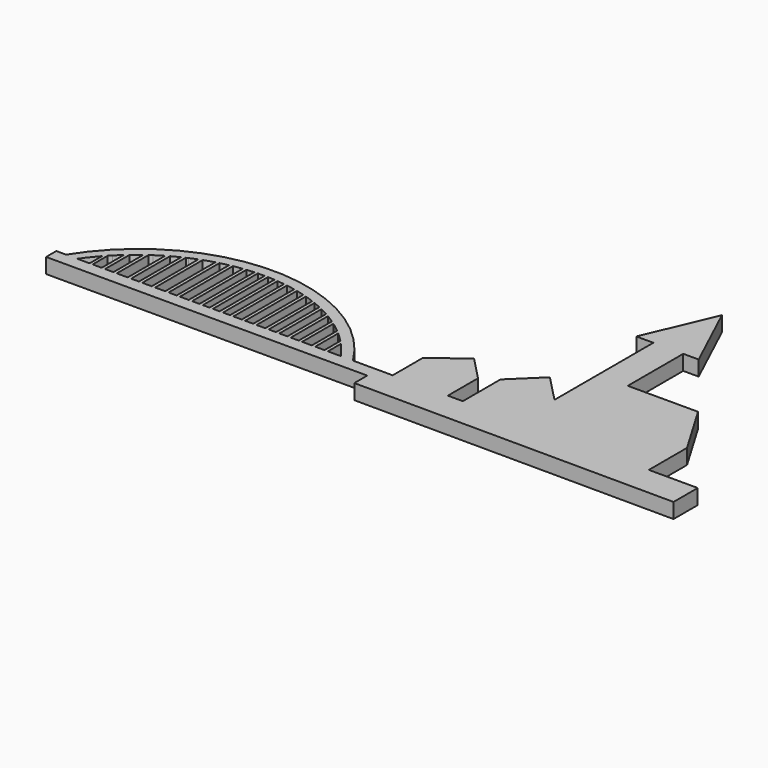
from build123d import *

# Parameters (mm, degrees)
F2_DEPTH = 2
F3_W     = 0.40073
F3_H     = 3.094508
F3_W_2   = 0.445254
F3_H_2   = 4.318954
F3_H_3   = 5.565662
F3_H_4   = 6.723319
F3_W_3   = 0.445252
F3_H_5   = 7.725138
F3_H_6   = 8.370755
F3_H_7   = 8.83827
F3_H_8   = 9.105423
F3_W_4   = 0.445253
F3_H_9   = 9.506151
F3_H_10  = 9.439363
F3_H_11  = 9.083159
F3_H_12  = 8.459806
F3_W_5   = 0.448172
F3_H_13  = 8.174662
F3_H_14  = 6.776365
F3_H_15  = 5.736604
F3_H_16  = 4.678918
F3_W_6   = 0.451199
F3_H_17  = 3.560012
F4_DEPTH = 2


with BuildPart() as f2:
    # F1 (on face) → F2 (new body)
    with BuildSketch(Plane.XY):
        Polygon((-42.565533, -25.966065), (-42.565533, -27.660457), (0, -27.660457), (0, -25.966065), (-3.254796, -25.966065), (-4.865278, -25.966065), (-6.80548, -25.966065), (-7.284604, -25.966065), (-8.611036, -25.966065), (-9.190797, -25.966065), (-10.747001, -25.966065), (-11.576914, -25.966065), (-13.527635, -25.966065), (-14.543153, -25.966065), (-16.00546, -25.966065), (-17.032834, -25.966065), (-18.660922, -25.966065), (-19.680227, -25.966065), (-21.282767, -25.966065), (-22.327718, -25.966065), (-24.128009, -25.966065), (-24.945042, -25.966065), (-26.6696, -25.966065), (-27.674529, -25.966065), (-29.783733, -25.966065), (-30.905583, -25.966065), (-33.341274, -25.966065), (-34.150291, -25.966065), (-36.62416, -25.966065), (-37.416613, -25.966065), (-39.790157, -25.966065), (-41.272748, -25.966065), align=None)
        Polygon((0, -25.966065), (0, -27.660457), (0, -29.807076), (42.442255, -29.978171), (42.442255, -25.966065), (37.837461, -25.966065), (35.959285, -25.966065), (35.959285, -19.634349), (31.794641, -12.611612), (22.485428, -12.611612), (22.485428, -3.422375), (24.526922, -3.422375), (20.198954, 5.84349), (16.263861, -3.422375), (18.525192, -3.422375), (18.525192, -19.802407), (14.995469, -16.15097), (11.306624, -19.716855), (11.306624, -25.966065), (9.322134, -25.966065), (9.322134, -20.964459), (6.251046, -17.787471), (2.015062, -20.964459), (2.015062, -25.966065), align=None)
        with BuildLine():
            ThreePointArc((-3.254796, -25.966065), (-22.263772, -15.386694), (-41.272748, -25.966065))
            Line((-41.272748, -25.966065), (-39.790157, -25.966065))
            ThreePointArc((-39.790157, -25.966065), (-38.665481, -24.491199), (-37.416613, -23.119903))
            ThreePointArc((-37.416613, -23.119903), (-37.025265, -22.73615), (-36.62416, -22.362606))
            ThreePointArc((-36.62416, -22.362606), (-35.422916, -21.350754), (-34.150291, -20.430287))
            ThreePointArc((-34.150291, -20.430287), (-33.748684, -20.16832), (-33.341274, -19.915471))
            ThreePointArc((-33.341274, -19.915471), (-32.143886, -19.242725), (-30.905583, -18.648645))
            ThreePointArc((-30.905583, -18.648645), (-30.347908, -18.41234), (-29.783733, -18.192007))
            ThreePointArc((-29.783733, -18.192007), (-28.7378, -17.831313), (-27.674529, -17.525486))
            ThreePointArc((-27.674529, -17.525486), (-27.17349, -17.401847), (-26.6696, -17.290397))
            ThreePointArc((-26.6696, -17.290397), (-25.810262, -17.129587), (-24.945042, -17.00422))
            ThreePointArc((-24.945042, -17.00422), (-24.536938, -16.957621), (-24.128009, -16.91891))
            ThreePointArc((-24.128009, -16.91891), (-23.228672, -16.861684), (-22.327718, -16.842597))
            ThreePointArc((-22.327718, -16.842597), (-21.805084, -16.849018), (-21.282767, -16.868277))
            ThreePointArc((-21.282767, -16.868277), (-20.480176, -16.922976), (-19.680227, -17.007981))
            ThreePointArc((-19.680227, -17.007981), (-19.169648, -17.078313), (-18.660922, -17.160994))
            ThreePointArc((-18.660922, -17.160994), (-17.843441, -17.320594), (-17.032834, -17.512072))
            ThreePointArc((-17.032834, -17.512072), (-16.517316, -17.651472), (-16.00546, -17.803769))
            ThreePointArc((-16.00546, -17.803769), (-15.269621, -18.047594), (-14.543153, -18.318065))
            ThreePointArc((-14.543153, -18.318065), (-14.032607, -18.526492), (-13.527635, -18.748083))
            ThreePointArc((-13.527635, -18.748083), (-12.539214, -19.228362), (-11.576914, -19.759042))
            ThreePointArc((-11.576914, -19.759042), (-11.159024, -20.010256), (-10.747001, -20.270981))
            ThreePointArc((-10.747001, -20.270981), (-9.956389, -20.809703), (-9.190797, -21.383427))
            ThreePointArc((-9.190797, -21.383427), (-8.602301, -21.862673), (-8.031275, -22.362606))
            ThreePointArc((-8.031275, -22.362606), (-7.653628, -22.713766), (-7.284604, -23.073977))
            ThreePointArc((-7.284604, -23.073977), (-7.043039, -23.319504), (-6.80548, -23.568909))
            ThreePointArc((-6.80548, -23.568909), (-5.791883, -24.732282), (-4.865278, -25.966065))
            Line((-4.865278, -25.966065), (-3.254796, -25.966065))
        make_face()
    extrude(amount=F2_DEPTH)

    # F3 (on face) → F4 (join)
    with BuildSketch(Plane.XY):
        with Locations((-37.955668, -24.606134)):
            Rectangle(F3_W, F3_H)
        with Locations((-36.330495, -23.904861)):
            Rectangle(F3_W_2, F3_H_2)
        with Locations((-34.772109, -23.236981)):
            Rectangle(F3_W_2, F3_H_3)
        with Locations((-32.879785, -22.658152)):
            Rectangle(F3_W_2, F3_H_4)
        with Locations((-31.388187, -22.201769)):
            Rectangle(F3_W_3, F3_H_5)
        with Locations((-29.696227, -21.87896)):
            Rectangle(F3_W_3, F3_H_6)
        with Locations((-27.915214, -21.689728)):
            Rectangle(F3_W_3, F3_H_7)
        with Locations((-26.401355, -21.533888)):
            Rectangle(F3_W_3, F3_H_8)
        with Locations((-24.798444, -21.333524)):
            Rectangle(F3_W_4, F3_H_9)
        with Locations((-23.373634, -21.333524)):
            Rectangle(F3_W_4, F3_H_9)
        with Locations((-22.037876, -21.30013)):
            Rectangle(F3_W_3, F3_H_10)
        with Locations((-20.702117, -21.333524)):
            Rectangle(F3_W_3, F3_H_9)
        with Locations((-19.321834, -21.30013)):
            Rectangle(F3_W_3, F3_H_10)
        with Locations((-17.763448, -21.30013)):
            Rectangle(F3_W_3, F3_H_10)
        with Locations((-16.249589, -21.567283)):
            Rectangle(F3_W_3, F3_H_11)
        with Locations((-14.646677, -21.834435)):
            Rectangle(F3_W_3, F3_H_12)
        with Locations((-13.227864, -21.954445)):
            Rectangle(F3_W_5, F3_H_13)
        with Locations((-11.722005, -22.653593)):
            Rectangle(F3_W_5, F3_H_14)
        with Locations((-10.216147, -23.24518)):
            Rectangle(F3_W_5, F3_H_15)
        with Locations((-8.477238, -23.720243)):
            Rectangle(F3_W_5, F3_H_16)
        with Locations((-6.799724, -24.328857)):
            Rectangle(F3_W_6, F3_H_17)
    extrude(amount=F4_DEPTH)


solid = f2.part
